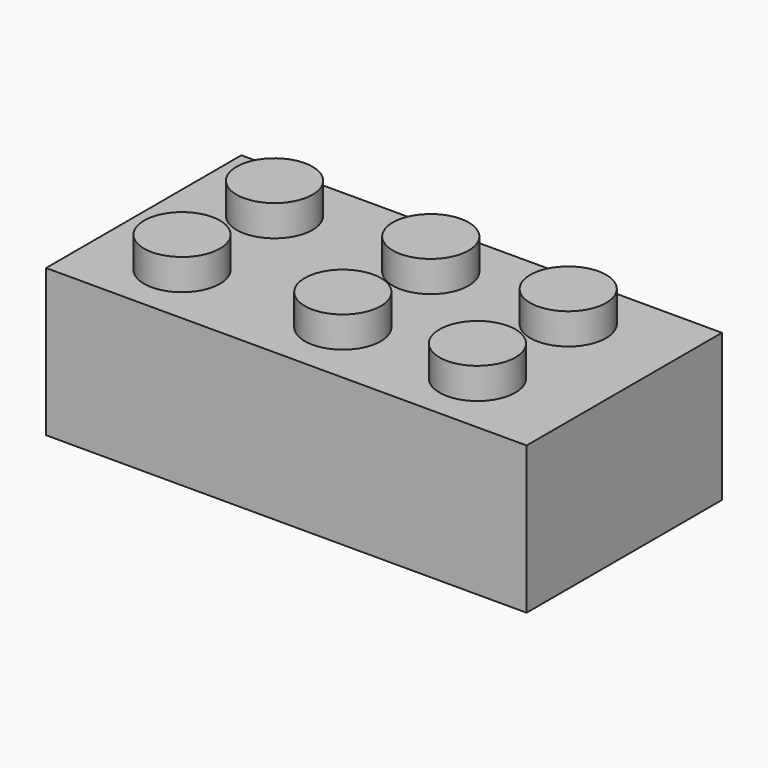
from build123d import *

# Parameters (mm, degrees)
F0_W      = 787.4
F0_H      = 400.05
F1_DEPTH  = 241.3
F2_R      = 62.23
F3_DEPTH  = 50.8
F4_W      = 744.22
F4_H      = 356.87
F5_DEPTH  = 215.9
F6_R      = 82.55
F6_R_2    = 60.96
F7_DEPTH  = 215.9
F8_W      = 5.5862860754
F8_H      = 356.87
F9_DEPTH  = 154.94
F10_DEPTH = 254
F11_DEPTH = 154.94


with BuildPart() as f1:
    # F0 (on Top) → F1 (new body)
    with BuildSketch(Plane.XY):
        Rectangle(F0_W, F0_H)
    extrude(amount=F1_DEPTH)

    # F2 (on face) → F3 (join)
    with BuildSketch(Plane.XY.offset(241.3)):
        with Locations((-254.7448580774, -95.225625706)):
            Circle(F2_R)
        with Locations((-255.5709736083, 95.274374294)):
            Circle(F2_R)
        with Locations((-2.9369472516, 99.4085264267)):
            Circle(F2_R)
        with Locations((5.3922456924, -91.0914735733)):
            Circle(F2_R)
        with Locations((225.107953531, 95.9239800905)):
            Circle(F2_R)
        with Locations((228.7954458169, -94.5760199095)):
            Circle(F2_R)
    extrude(amount=F3_DEPTH)

    # F4 (on face) → F5 (cut)
    with BuildSketch(Plane(origin=(0, 0, 0), x_dir=(1, 0, 0), z_dir=(0, 0, -1))):
        Rectangle(F4_W, F4_H)
    extrude(amount=-F5_DEPTH, mode=Mode.SUBTRACT)

    # F6 (on face) → F7 (join)
    with BuildSketch(Plane(origin=(0, 0, 215.9), x_dir=(1, 0, 0), z_dir=(0, 0, -1))):
        with Locations((-252.7241706848, 0)):
            Circle(F6_R)
        with Locations((-252.7241706848, 0)):
            Circle(F6_R_2, mode=Mode.SUBTRACT)
        Circle(F6_R)
        Circle(F6_R_2, mode=Mode.SUBTRACT)
        with Locations((252.73, 0)):
            Circle(F6_R)
        with Locations((252.73, 0)):
            Circle(F6_R_2, mode=Mode.SUBTRACT)
    extrude(amount=F7_DEPTH)

    # F8 (on face) → F9 (join)
    with BuildSketch(Plane(origin=(0, 0, 215.9), x_dir=(1, 0, 0), z_dir=(0, 0, -1))):
        Rectangle(F8_W, F8_H)
    extrude(amount=F9_DEPTH)

    # F10 (cut): faces of the model
    f10_faces = [f1.faces().sort_by_distance(p)[0] for p in [
        (-27.3880241928, 0, 215.9),
        (27.3880241928, 0, 215.9),
    ]]
    extrude(f10_faces, amount=F10_DEPTH, mode=Mode.SUBTRACT)

    # F11 (cut): a face of the model
    f11_faces = [f1.faces().sort_by_distance(p)[0] for p in [
        (0, 0, 60.96),
    ]]
    extrude(f11_faces, amount=-F11_DEPTH, mode=Mode.SUBTRACT)


solid = f1.part
